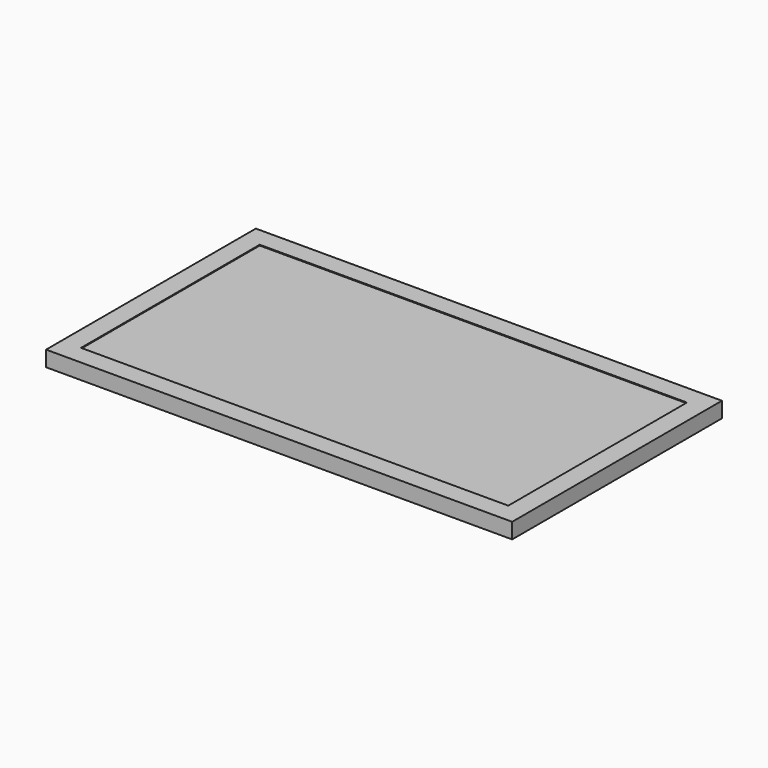
from build123d import *

# Parameters (mm, degrees)
F0_W     = 120
F0_H     = 67.5
F0_W_2   = 110.000002
F0_H_2   = 57.500002
F1_DEPTH = 4
F2_W     = 110.000002
F2_H     = 57.500002
F3_DEPTH = 0.2


with BuildPart() as f1:
    # F0 (on Top) → F1 (new body)
    with BuildSketch(Plane.XY):
        Rectangle(F0_W, F0_H)
        Rectangle(F0_W_2, F0_H_2, mode=Mode.SUBTRACT)
        Rectangle(F0_W_2, F0_H_2)
    extrude(amount=F1_DEPTH)

    # F2 (on face) → F3 (cut)
    with BuildSketch(Plane.XY.offset(4)):
        Rectangle(F2_W, F2_H)
    extrude(amount=-F3_DEPTH, mode=Mode.SUBTRACT)


solid = f1.part
